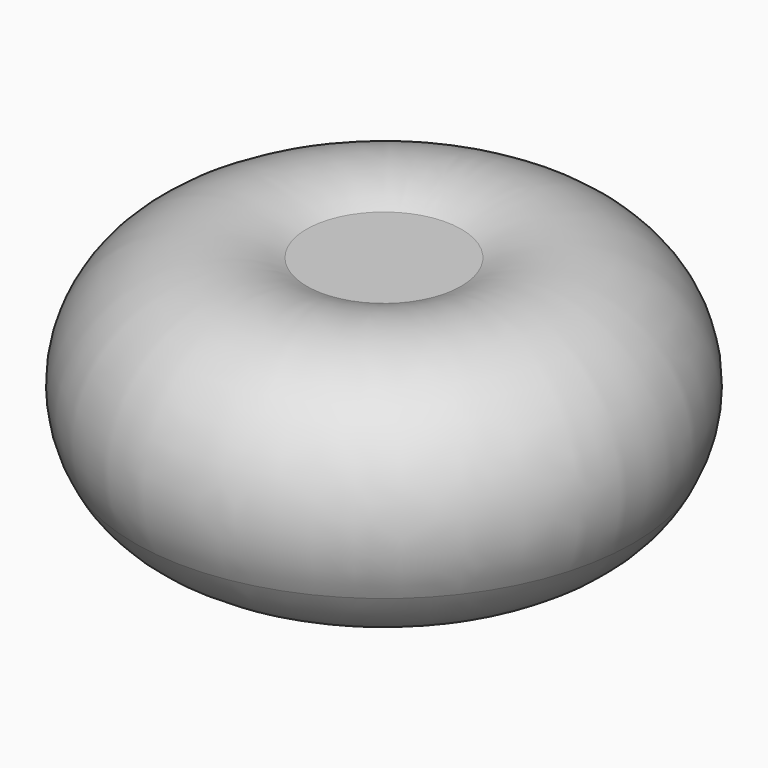
from build123d import *


with BuildPart() as f1:
    # F0 (on Front) → F1 (revolve)
    with BuildSketch(Plane.XZ):
        with BuildLine():
            Line((0, 41.359894), (0, 0))
            Line((0, 0), (5.562193, 11.409625))
            Line((5.562193, 11.409625), (15.830858, 7.986738))
            ThreePointArc((15.830858, 7.986738), (27.70156, 8.420453), (36.368184, 16.543958))
            ThreePointArc((36.368184, 16.543958), (32.989548, 38.229306), (11.267005, 41.359894))
            Line((11.267005, 41.359894), (0, 41.359894))
        make_face()
        with BuildLine():
            Line((0, 41.359894), (0, 0))
            Line((0, 0), (5.562193, 11.409625))
            Line((5.562193, 11.409625), (15.830858, 7.986738))
            ThreePointArc((15.830858, 7.986738), (27.70156, 8.420453), (36.368184, 16.543958))
            ThreePointArc((36.368184, 16.543958), (32.989548, 38.229306), (11.267005, 41.359894))
            Line((11.267005, 41.359894), (0, 41.359894))
        make_face()
    revolve(axis=Axis((0, 0, 20.679947), (0, 0, -1)))


solid = f1.part
